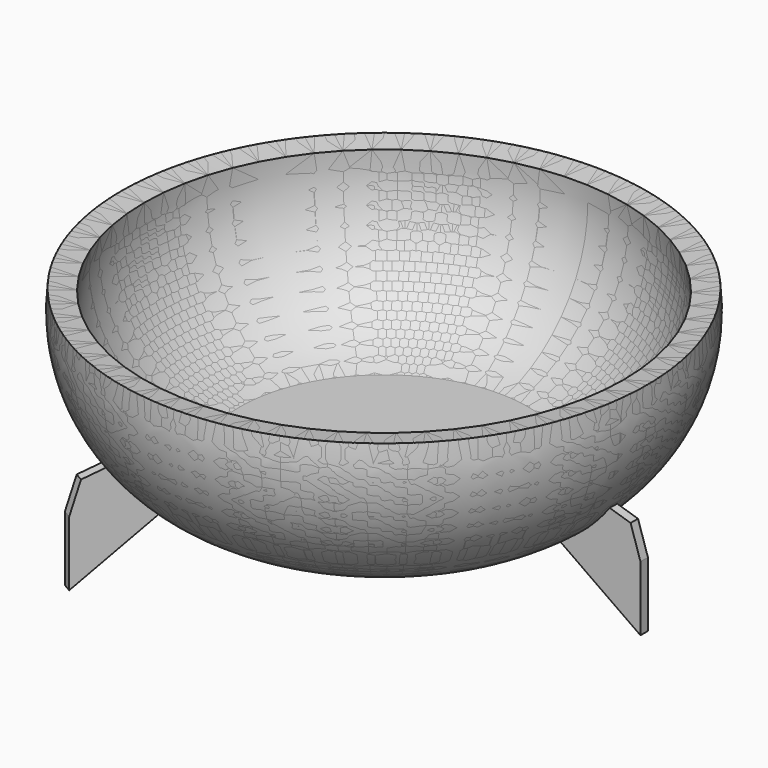
from build123d import *

# Parameters (mm, degrees)
F3_DEPTH = 2.54
F4_COUNT = 3


with BuildPart() as f1:
    # F0 (on Front) → F1 (revolve)
    with BuildSketch(Plane.XZ):
        with BuildLine():
            ThreePointArc((65.572113, 40.606577), (59.797524, 15.592554), (39.40342, 0))
            Line((39.40342, 0), (0, 0))
            Line((0, 0), (0, -6.35))
            Line((0, -6.35), (40.347544, -6.35))
            ThreePointArc((40.347544, -6.35), (64.856364, 11.72558), (71.87743, 41.358561))
            Line((71.87743, 41.358561), (65.572113, 40.606577))
        make_face()
    revolve(axis=Axis((0, 0, 37.749078), (0, 0, 1)))

    # F2 (on Front) → F3 (join)
    with BuildSketch(Plane.XZ):
        with BuildLine():
            Line((69.482371, 8.422106), (60.759477, 11.129211))
            ThreePointArc((60.759477, 11.129211), (55.456621, 3.556388), (46.923157, 0))
            Line((46.923157, 0), (72.189473, -17.746579))
            Line((72.189473, -17.746579), (72.189473, -10.226843))
            Line((72.189473, -10.226843), (72.189473, 0))
            Line((72.189473, 0), (69.482371, 8.422106))
        make_face()
    extrude(amount=F3_DEPTH)


with BuildPart() as f4_1:
    # F4: instance of F1
    add(f1.part.rotate(Axis((0, 0, 41.358561), (0, 0, 1)), 1 * 360 / F4_COUNT))


with BuildPart() as f4_2:
    # F4: instance of F1
    add(f1.part.rotate(Axis((0, 0, 41.358561), (0, 0, 1)), 2 * 360 / F4_COUNT))


solid = Compound([f1.part, f4_1.part, f4_2.part])
